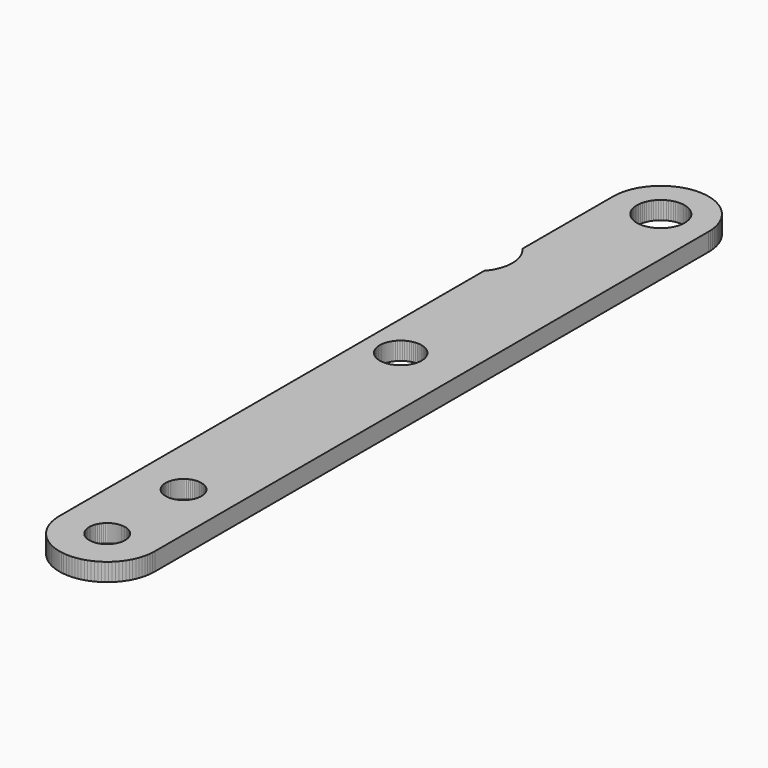
from build123d import *

# Parameters (mm, degrees)
F1_DEPTH = 9.525


with BuildPart() as f1:
    # F0 (on Top) → F1 (new body)
    with BuildSketch(Plane.XY):
        Polygon((25.4, -184.15), (25.4, 184.149975), (25.357658, 185.631709), (25.230658, 187.092158), (25.019, 188.552633), (24.722658, 190.013184), (24.341658, 191.431342), (23.876, 192.828342), (23.325658, 194.204133), (22.711816, 195.558842), (22.013316, 196.849975), (21.230158, 198.098816), (20.3835, 199.326475), (19.473316, 200.469475), (18.478475, 201.570184), (17.441316, 202.628525), (16.340658, 203.602184), (15.176475, 204.533475), (13.97, 205.380209), (12.7, 206.142158), (11.408816, 206.840658), (10.075342, 207.475684), (8.6995, 208.026025), (7.302475, 208.491633), (5.863158, 208.872658), (4.423816, 209.169025), (2.963316, 209.380633), (1.481658, 209.507684), (0, 209.549975), (-1.4605, 209.507684), (-2.942184, 209.380633), (-4.402684, 209.169025), (-5.842, 208.872658), (-7.281342, 208.491633), (-8.678342, 208.026025), (-10.054184, 207.475684), (-11.387684, 206.840658), (-12.7, 206.142158), (-13.948842, 205.380209), (-15.155342, 204.533475), (-16.3195, 203.602184), (-17.420184, 202.628525), (-18.457342, 201.570184), (-19.452158, 200.469475), (-20.362342, 199.326475), (-21.209, 198.098816), (-21.992184, 196.849975), (-22.690684, 195.558842), (-23.3045, 194.204133), (-23.854842, 192.828342), (-24.3205, 191.431342), (-24.7015, 190.013184), (-24.997842, 188.552633), (-25.2095, 187.092158), (-25.3365, 185.631709), (-25.4, 184.149975), (-25.4, 123.824975), (-24.595684, 122.851291), (-23.854842, 121.814158), (-23.198684, 120.755816), (-22.606, 119.634), (-22.098, 118.491025), (-21.6535, 117.305633), (-21.2725, 116.099158), (-20.997342, 114.8715), (-20.785684, 113.643842), (-20.658684, 112.373816), (-20.6375, 111.124975), (-20.658684, 109.876133), (-20.785684, 108.606184), (-20.997342, 107.378525), (-21.2725, 106.150867), (-21.6535, 104.944291), (-22.098, 103.759), (-22.606, 102.616025), (-23.198684, 101.494209), (-23.854842, 100.435867), (-24.595684, 99.398633), (-25.4, 98.424975), (-25.4, -184.15), (-25.3365, -185.631684), (-25.2095, -187.092184), (-24.997842, -188.552684), (-24.7015, -190.013158), (-24.3205, -191.431316), (-23.854842, -192.828367), (-23.3045, -194.204158), (-22.690684, -195.558842), (-21.992184, -196.85), (-21.209, -198.098842), (-20.362342, -199.3265), (-19.452158, -200.4695), (-18.457342, -201.570158), (-17.420184, -202.6285), (-16.3195, -203.602158), (-15.155342, -204.5335), (-13.948842, -205.380184), (-12.7, -206.142184), (-11.387684, -206.840684), (-10.054184, -207.475658), (-8.678342, -208.026), (-7.281342, -208.491658), (-5.842, -208.872684), (-4.402684, -209.169), (-2.942184, -209.380658), (-1.4605, -209.507658), (0, -209.55), (1.481658, -209.507658), (2.963316, -209.380658), (4.423816, -209.169), (5.863158, -208.872684), (7.302475, -208.491658), (8.6995, -208.026), (10.075342, -207.475658), (11.408816, -206.840684), (12.7, -206.142184), (13.97, -205.380184), (15.176475, -204.5335), (16.340658, -203.602158), (17.441316, -202.6285), (18.478475, -201.570158), (19.473316, -200.4695), (20.3835, -199.3265), (21.230158, -198.098842), (22.013316, -196.85), (22.711816, -195.558842), (23.325658, -194.204158), (23.876, -192.828367), (24.341658, -191.431316), (24.722658, -190.013158), (25.019, -188.552684), (25.230658, -187.092184), (25.357658, -185.631684), align=None)
        Polygon((0.888975, -193.632658), (0, -193.675), (-0.867842, -193.632658), (-1.735684, -193.505658), (-2.6035, -193.315184), (-3.429, -193.040025), (-4.233342, -192.680184), (-4.995342, -192.256867), (-5.736184, -191.748842), (-6.4135, -191.198525), (-7.027342, -190.5635), (-7.598842, -189.886158), (-8.085684, -189.166525), (-8.509, -188.4045), (-8.868842, -187.600158), (-9.144025, -186.7535), (-9.355684, -185.906867), (-9.482684, -185.039), (-9.525, -184.15), (-9.482684, -183.261025), (-9.355684, -182.393158), (-9.144025, -181.546475), (-8.868842, -180.699842), (-8.509, -179.8955), (-8.085684, -179.1335), (-7.598842, -178.413816), (-7.027342, -177.7365), (-6.4135, -177.1015), (-5.736184, -176.551184), (-4.995342, -176.043158), (-4.233342, -175.619842), (-3.429, -175.26), (-2.6035, -174.984816), (-1.735684, -174.794367), (-0.867842, -174.667316), (0, -174.625), (0.888975, -174.667316), (1.756816, -174.794367), (2.624658, -174.984816), (3.450158, -175.26), (4.2545, -175.619842), (5.0165, -176.043158), (5.757316, -176.551184), (6.434658, -177.1015), (7.0485, -177.7365), (7.62, -178.413816), (8.106816, -179.1335), (8.530158, -179.8955), (8.889975, -180.699842), (9.165158, -181.546475), (9.376816, -182.393158), (9.503816, -183.261025), (9.525, -184.15), (9.503816, -185.039), (9.376816, -185.906867), (9.165158, -186.7535), (8.889975, -187.600158), (8.530158, -188.4045), (8.106816, -189.166525), (7.62, -189.886158), (7.0485, -190.5635), (6.434658, -191.198525), (5.757316, -191.748842), (5.0165, -192.256867), (4.2545, -192.680184), (3.450158, -193.040025), (2.624658, -193.315184), (1.756816, -193.505658), align=None, mode=Mode.SUBTRACT)
        Polygon((0.888975, -142.832658), (0, -142.875), (-0.867842, -142.832658), (-1.735684, -142.705658), (-2.6035, -142.515184), (-3.429, -142.240025), (-4.233342, -141.880184), (-4.995342, -141.456867), (-5.736184, -140.948842), (-6.4135, -140.398525), (-7.027342, -139.7635), (-7.598842, -139.086158), (-8.085684, -138.366525), (-8.509, -137.6045), (-8.868842, -136.800158), (-9.144025, -135.9535), (-9.355684, -135.106867), (-9.482684, -134.239), (-9.525, -133.35), (-9.482684, -132.461025), (-9.355684, -131.593158), (-9.144025, -130.746475), (-8.868842, -129.899842), (-8.509, -129.0955), (-8.085684, -128.3335), (-7.598842, -127.613816), (-7.027342, -126.9365), (-6.4135, -126.3015), (-5.736184, -125.751184), (-4.995342, -125.243158), (-4.233342, -124.819842), (-3.429, -124.46), (-2.6035, -124.184816), (-1.735684, -123.994367), (-0.867842, -123.867316), (0, -123.825), (0.888975, -123.867316), (1.756816, -123.994367), (2.624658, -124.184816), (3.450158, -124.46), (4.2545, -124.819842), (5.0165, -125.243158), (5.757316, -125.751184), (6.434658, -126.3015), (7.0485, -126.9365), (7.62, -127.613816), (8.106816, -128.3335), (8.530158, -129.0955), (8.889975, -129.899842), (9.165158, -130.746475), (9.376816, -131.593158), (9.503816, -132.461025), (9.525, -133.35), (9.503816, -134.239), (9.376816, -135.106867), (9.165158, -135.9535), (8.889975, -136.800158), (8.530158, -137.6045), (8.106816, -138.366525), (7.62, -139.086158), (7.0485, -139.7635), (6.434658, -140.398525), (5.757316, -140.948842), (5.0165, -141.456867), (4.2545, -141.880184), (3.450158, -142.240025), (2.624658, -142.515184), (1.756816, -142.705658), align=None, mode=Mode.SUBTRACT)
        Polygon((-5.376342, 7.979842), (-6.35, 7.9375), (-7.302525, 7.979842), (-8.276184, 8.106842), (-9.2075, 8.3185), (-10.138842, 8.614816), (-11.027842, 8.974658), (-11.895684, 9.419158), (-12.721184, 9.948316), (-13.483184, 10.541025), (-14.202842, 11.197184), (-14.859, 11.916816), (-15.451684, 12.678816), (-15.959684, 13.504316), (-16.404184, 14.351), (-16.785158, 15.24), (-17.081525, 16.171342), (-17.293184, 17.123816), (-17.420184, 18.076342), (-17.4625, 19.05), (-17.420184, 20.023684), (-17.293184, 20.976158), (-17.081525, 21.928658), (-16.785158, 22.859975), (-16.404184, 23.749), (-15.959684, 24.616816), (-15.451684, 25.421158), (-14.859, 26.183158), (-14.202842, 26.902842), (-13.483184, 27.559), (-12.721184, 28.151658), (-11.895684, 28.680816), (-11.027842, 29.125316), (-10.138842, 29.485158), (-9.2075, 29.781475), (-8.276184, 29.993133), (-7.302525, 30.120184), (-6.35, 30.1625), (-5.376342, 30.120184), (-4.402684, 29.993133), (-3.471342, 29.781475), (-2.540025, 29.485158), (-1.651025, 29.125316), (-0.783184, 28.680816), (0.042342, 28.151658), (0.804316, 27.559), (1.523975, 26.902842), (2.180158, 26.183158), (2.772842, 25.421158), (3.280842, 24.616816), (3.725342, 23.749), (4.106316, 22.859975), (4.402658, 21.928658), (4.614316, 20.976158), (4.720158, 20.023684), (4.7625, 19.05), (4.720158, 18.076342), (4.614316, 17.123816), (4.402658, 16.171342), (4.106316, 15.24), (3.725342, 14.351), (3.280842, 13.504316), (2.772842, 12.678816), (2.180158, 11.916816), (1.523975, 11.197184), (0.804316, 10.541025), (0.042342, 9.948316), (-0.783184, 9.419158), (-1.651025, 8.974658), (-2.540025, 8.614816), (-3.471342, 8.3185), (-4.402684, 8.106842), align=None, mode=Mode.SUBTRACT)
        Polygon((1.058342, 171.492342), (0, 171.449975), (-1.037158, 171.492342), (-2.074342, 171.619291), (-3.1115, 171.831), (-4.106342, 172.148475), (-5.101184, 172.5295), (-6.0325, 172.974), (-6.942684, 173.524342), (-7.789342, 174.138184), (-8.593658, 174.815475), (-9.3345, 175.556342), (-10.011842, 176.3395), (-10.625684, 177.207316), (-11.154842, 178.096342), (-11.6205, 179.048816), (-12.0015, 180.022475), (-12.297842, 181.038525), (-12.5095, 182.0545), (-12.6365, 183.091633), (-12.7, 184.149975), (-12.6365, 185.208291), (-12.5095, 186.245525), (-12.297842, 187.2615), (-12.0015, 188.277551), (-11.6205, 189.251133), (-11.154842, 190.203684), (-10.625684, 191.092709), (-10.011842, 191.960525), (-9.3345, 192.743684), (-8.593658, 193.484449), (-7.789342, 194.161842), (-6.942684, 194.775684), (-6.0325, 195.326025), (-5.101184, 195.770525), (-4.106342, 196.151475), (-3.1115, 196.469025), (-2.074342, 196.680633), (-1.037158, 196.807684), (0, 196.849975), (1.058342, 196.807684), (2.095475, 196.680633), (3.132658, 196.469025), (4.127475, 196.151475), (5.101158, 195.770525), (6.053658, 195.326025), (6.963842, 194.775684), (7.810475, 194.161842), (8.614842, 193.484449), (9.355658, 192.743684), (10.032975, 191.960525), (10.646842, 191.092709), (11.176, 190.203684), (11.641658, 189.251133), (12.022658, 188.277551), (12.319, 187.2615), (12.530658, 186.245525), (12.657658, 185.208291), (12.7, 184.149975), (12.657658, 183.091633), (12.530658, 182.0545), (12.319, 181.038525), (12.022658, 180.022475), (11.641658, 179.048816), (11.176, 178.096342), (10.646842, 177.207316), (10.032975, 176.3395), (9.355658, 175.556342), (8.614842, 174.815475), (7.810475, 174.138184), (6.963842, 173.524342), (6.053658, 172.974), (5.101158, 172.5295), (4.127475, 172.148475), (3.132658, 171.831), (2.095475, 171.619291), align=None, mode=Mode.SUBTRACT)
    extrude(amount=F1_DEPTH)


solid = f1.part
